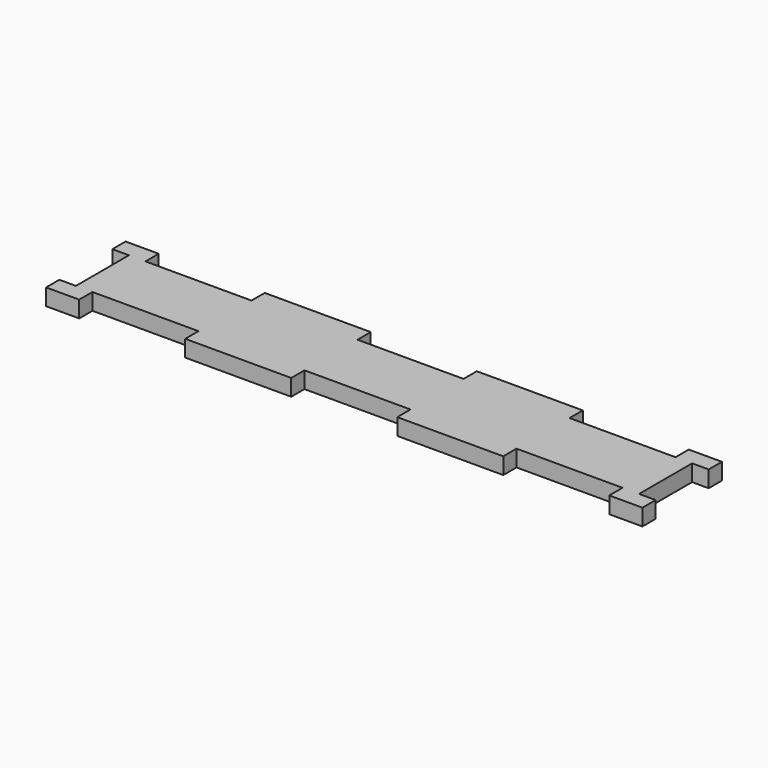
from build123d import *

# Parameters (mm, degrees)
F1_DEPTH = 6.35


with BuildPart() as f1:
    # F0 (on Top) → F1 (new body)
    with BuildSketch(Plane.XY):
        Polygon((-101.6, 19.05), (-114.3, 19.05), (-114.3, 12.7), (-107.95, 12.7), (-107.95, -12.7), (-114.3, -12.7), (-114.3, -19.05), (-101.6, -19.05), (-101.6, -12.7), (-60.96, -12.7), (-60.96, -19.05), (-39.7233739495, -19.05), (-20.32, -19.05), (-20.32, -12.7), (20.32, -12.7), (20.32, -12.5116314739), (60.96, -12.5116314739), (60.96, -12.7), (101.6, -12.7), (101.6, -19.05), (114.3, -19.05), (114.3, -12.7), (107.95, -12.7), (107.95, 12.7), (114.3, 12.7), (114.3, 19.05), (101.6, 19.05), (101.6, 12.7), (60.96, 12.7), (60.96, 19.05), (38.6236213803, 19.05), (20.32, 19.05), (20.32, 12.7), (-20.32, 12.7), (-20.32, 19.05), (-60.96, 19.05), (-60.96, 12.7), (-101.6, 12.7), align=None)
        Polygon((20.32, -12.7), (20.32, -19.05), (60.96, -19.05), (60.96, -12.7), (60.96, -12.5116314739), (20.32, -12.5116314739), align=None)
    extrude(amount=F1_DEPTH)


solid = f1.part
